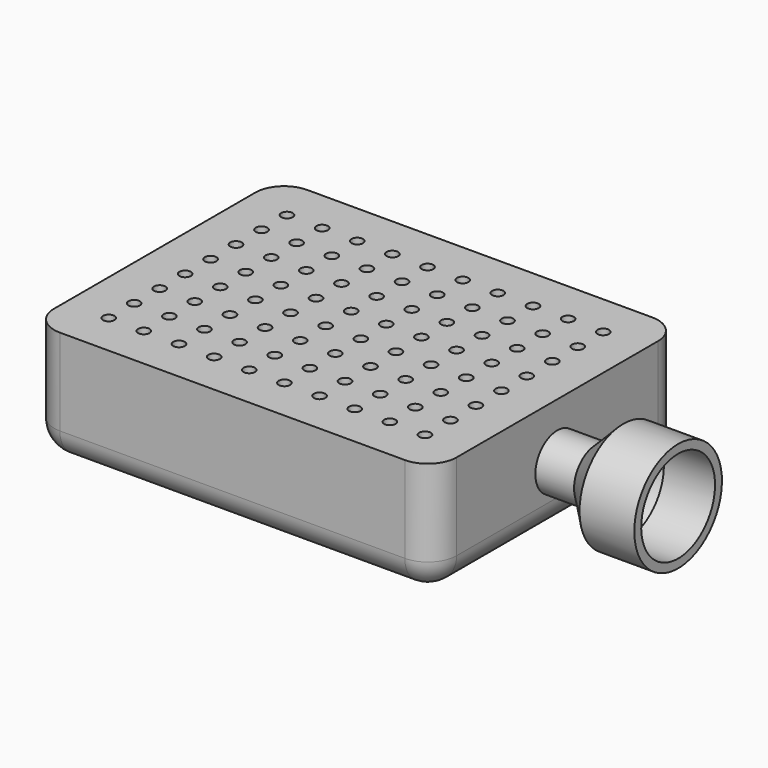
from build123d import *

# Parameters (mm, degrees)
SKETCH002_R   = 2
PAD001_DEPTH  = 5
ARRAY_X_COUNT = 10
ARRAY_X_PITCH = 12.222222
ARRAY_Y_COUNT = 8
ARRAY_Y_PITCH = 11.071429
SKETCH_W      = 140
SKETCH_H      = 107.5
PAD_DEPTH     = 40.1
FILLET_R      = 10
THICKNESS_T   = -3


with BuildPart() as array:
    # Sketch002 → Pad001 (new body, symmetric)
    with BuildSketch(Plane.XY):
        with Locations((-55, 38.75)):
            Circle(SKETCH002_R)
    extrude(amount=PAD001_DEPTH, both=True)


with BuildPart() as array_1:
    # Body placement: moved
    add(array.part.moved(Location((0, 0, 38.1))))

    # Array X: Array ×10


with BuildPart() as array_2:
    add(array_1.part)
    with Locations(*[(i * ARRAY_X_PITCH, 0, 0) for i in range(1, ARRAY_X_COUNT)]):
        add(array_1.part)

    # Array Y: Array ×8


with BuildPart() as array_3:
    add(array_2.part)
    with Locations(*[(0, -i * ARRAY_Y_PITCH, 0) for i in range(1, ARRAY_Y_COUNT)]):
        add(array_2.part)


with BuildPart() as cut:
    # Sketch → Pad (new body)
    with BuildSketch(Plane.XY):
        Rectangle(SKETCH_W, SKETCH_H)
    extrude(amount=PAD_DEPTH)

    # Sketch001 → Revolution (revolve)
    with BuildSketch(Plane.XZ):
        Polygon((70, 30.575), (70, 21.05), (112.045384, 21.05), (112.045384, 40.1), (92.995384, 40.1), (83.470384, 30.575), align=None)
    revolve(axis=Axis((0, 0, 21.05), (1, 0, 0)))

    # Fillet
    fillet_edges = [cut.edges().sort_by_distance(p)[0] for p in [
        (0, 53.75, 0),
        (70, 0, 0),
        (0, -53.75, 0),
        (-70, 0, 0),
        (-70, 53.75, 20.05),
        (70, 53.75, 20.05),
        (-70, -53.75, 20.05),
        (70, -53.75, 20.05),
    ]]
    fillet(fillet_edges, radius=FILLET_R)

    # Thickness
    thickness_openings = [cut.faces().sort_by_distance(p)[0] for p in [
        (112.045384, 0, 21.05),
    ]]
    offset(amount=THICKNESS_T, openings=thickness_openings)

    # Cut: cut Array
    add(array_3.part, mode=Mode.SUBTRACT)


solid = cut.part
